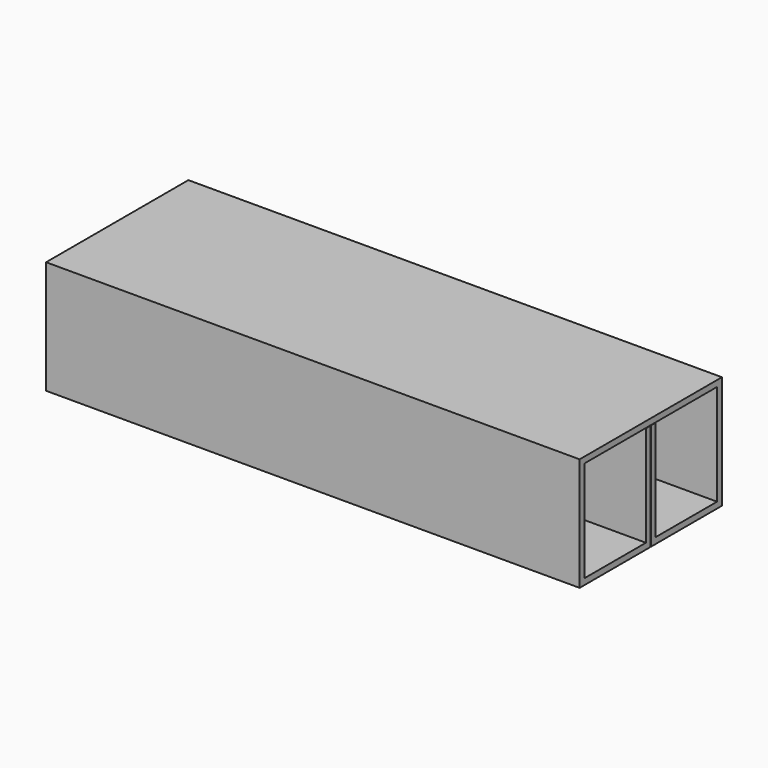
from build123d import *

# Parameters (mm, degrees)
F1_DEPTH = 209.55


with BuildPart() as f1:
    # F0 (on Right) → F1 (new body, symmetric)
    with BuildSketch(Plane.YZ):
        Polygon((69.85, 88.9), (-69.85, 88.9), (-69.85, 0), (-0.127, 0), (-0.127, 83.8835), (-4.7625, 83.8835), (-4.7625, 4.7625), (-65.0875, 4.7625), (-65.0875, 84.1375), (65.0875, 84.1375), (65.0875, 4.7625), (4.7625, 4.7625), (4.7625, 83.8835), (0.127, 83.8835), (0.127, 0), (69.85, 0), align=None)
    extrude(amount=F1_DEPTH, both=True)


solid = f1.part
